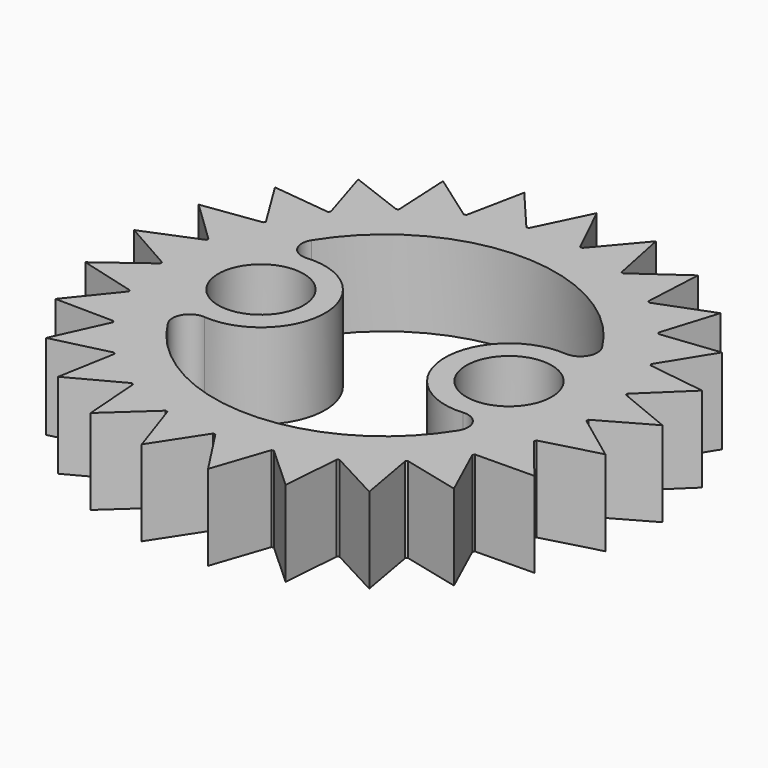
from build123d import *

# Parameters (mm, degrees)
F0_R     = 5
F1_DEPTH = 10


with BuildPart() as f1:
    # F0 (on Top) → F1 (new body)
    with BuildSketch(Plane.XY):
        with BuildLine():
            Line((-14.934364, 27.165507), (-14.585732, 20.304099))
            ThreePointArc((-14.585732, 20.304099), (-14.694631, 20.225425), (-14.803106, 20.146167))
            Line((-14.803106, 20.146167), (-21.22096, 22.598027))
            Line((-21.22096, 22.598027), (-19.176918, 16.038884))
            ThreePointArc((-19.176918, 16.038884), (-19.262831, 15.9356), (-19.348188, 15.831855))
            Line((-19.348188, 15.831855), (-26.174166, 16.610631))
            Line((-26.174166, 16.610631), (-22.563148, 10.765888))
            ThreePointArc((-22.563148, 10.765888), (-22.620676, 10.644482), (-22.677551, 10.52277))
            Line((-22.677551, 10.52277), (-29.482752, 9.579527))
            Line((-29.482752, 9.579527), (-24.531653, 4.816431))
            ThreePointArc((-24.531653, 4.816431), (-24.557181, 4.684533), (-24.582, 4.5525))
            Line((-24.582, 4.5525), (-30.938829, 1.946506))
            Line((-30.938829, 1.946506), (-24.958744, -1.43566))
            ThreePointArc((-24.958744, -1.43566), (-24.950668, -1.569763), (-24.941872, -1.70382))
            Line((-24.941872, -1.70382), (-30.450905, -5.808821))
            Line((-30.450905, -5.808821), (-23.817584, -7.597544))
            ThreePointArc((-23.817584, -7.597544), (-23.776413, -7.725425), (-23.734555, -7.853083))
            Line((-23.734555, -7.853083), (-28.049639, -13.199158))
            Line((-28.049639, -13.199158), (-21.179879, -13.282045))
            ThreePointArc((-21.179879, -13.282045), (-21.108198, -13.39567), (-21.035908, -13.508908))
            Line((-21.035908, -13.508908), (-23.885911, -19.760144))
            Line((-23.885911, -19.760144), (-17.211364, -18.131987))
            ThreePointArc((-17.211364, -18.131987), (-17.113678, -18.224216), (-17.015497, -18.315918))
            Line((-17.015497, -18.315918), (-18.221343, -25.079527))
            Line((-18.221343, -25.079527), (-12.161395, -21.84263))
            ThreePointArc((-12.161395, -21.84263), (-12.043842, -21.907667), (-11.925941, -21.972072))
            Line((-11.925941, -21.972072), (-11.411861, -28.823071))
            Line((-11.411861, -28.823071), (-6.347282, -24.180819))
            ThreePointArc((-6.347282, -24.180819), (-6.217247, -24.214579), (-6.087033, -24.24764))
            Line((-6.087033, -24.24764), (-3.88533, -30.755556))
            Line((-3.88533, -30.755556), (-0.134345, -24.999639))
            ThreePointArc((-0.134345, -24.999639), (0, -25), (0.134345, -24.999639))
            Line((0.134345, -24.999639), (3.88533, -30.755556))
            Line((3.88533, -30.755556), (6.087033, -24.24764))
            ThreePointArc((6.087033, -24.24764), (6.217247, -24.214579), (6.347282, -24.180819))
            Line((6.347282, -24.180819), (11.411861, -28.823071))
            Line((11.411861, -28.823071), (11.925941, -21.972072))
            ThreePointArc((11.925941, -21.972072), (12.043842, -21.907667), (12.161395, -21.84263))
            Line((12.161395, -21.84263), (18.221343, -25.079527))
            Line((18.221343, -25.079527), (17.015497, -18.315918))
            ThreePointArc((17.015497, -18.315918), (17.113678, -18.224216), (17.211364, -18.131987))
            Line((17.211364, -18.131987), (23.885911, -19.760144))
            Line((23.885911, -19.760144), (21.035908, -13.508908))
            ThreePointArc((21.035908, -13.508908), (21.108198, -13.39567), (21.179879, -13.282045))
            Line((21.179879, -13.282045), (28.049639, -13.199158))
            Line((28.049639, -13.199158), (23.734555, -7.853083))
            ThreePointArc((23.734555, -7.853083), (23.776413, -7.725425), (23.817584, -7.597544))
            Line((23.817584, -7.597544), (30.450905, -5.808821))
            Line((30.450905, -5.808821), (24.941872, -1.70382))
            ThreePointArc((24.941872, -1.70382), (24.950668, -1.569763), (24.958744, -1.43566))
            Line((24.958744, -1.43566), (30.938829, 1.946506))
            Line((30.938829, 1.946506), (24.582, 4.5525))
            ThreePointArc((24.582, 4.5525), (24.557181, 4.684533), (24.531653, 4.816431))
            Line((24.531653, 4.816431), (29.482752, 9.579527))
            Line((29.482752, 9.579527), (22.677551, 10.52277))
            ThreePointArc((22.677551, 10.52277), (22.620676, 10.644482), (22.563148, 10.765888))
            Line((22.563148, 10.765888), (26.174166, 16.610631))
            Line((26.174166, 16.610631), (19.348188, 15.831855))
            ThreePointArc((19.348188, 15.831855), (19.262831, 15.9356), (19.176918, 16.038884))
            Line((19.176918, 16.038884), (21.22096, 22.598027))
            Line((21.22096, 22.598027), (14.803106, 20.146167))
            ThreePointArc((14.803106, 20.146167), (14.694631, 20.225425), (14.585732, 20.304099))
            Line((14.585732, 20.304099), (14.934364, 27.165507))
            Line((14.934364, 27.165507), (9.327892, 23.194621))
            ThreePointArc((9.327892, 23.194621), (9.203114, 23.244412), (9.07807, 23.293532))
            Line((9.07807, 23.293532), (7.709387, 30.026078))
            Line((7.709387, 30.026078), (3.266571, 24.785672))
            ThreePointArc((3.266571, 24.785672), (3.133331, 24.802868), (3, 24.819347))
            Line((3, 24.819347), (0, 31))
            Line((0, 31), (-3, 24.819347))
            ThreePointArc((-3, 24.819347), (-3.133331, 24.802868), (-3.266571, 24.785672))
            Line((-3.266571, 24.785672), (-7.709387, 30.026078))
            Line((-7.709387, 30.026078), (-9.07807, 23.293532))
            ThreePointArc((-9.07807, 23.293532), (-9.203114, 23.244412), (-9.327892, 23.194621))
            Line((-9.327892, 23.194621), (-14.934364, 27.165507))
        make_face()
        with Locations((-14.526644, 0)):
            Circle(F0_R, mode=Mode.SUBTRACT)
        with BuildLine():
            ThreePointArc((17.00987, -10.519711), (0, -20), (-17.00987, -10.519711))
            ThreePointArc((-17.00987, -10.519711), (-17.014268, -8.422914), (-15.144201, -7.474532))
            ThreePointArc((-15.144201, -7.474532), (-7.026644, 0), (-15.144201, 7.474532))
            ThreePointArc((-15.144201, 7.474532), (-17.014268, 8.422914), (-17.00987, 10.519711))
            ThreePointArc((-17.00987, 10.519711), (0, 20), (17.00987, 10.519711))
            ThreePointArc((17.00987, 10.519711), (17.014268, 8.422914), (15.144201, 7.474532))
            ThreePointArc((15.144201, 7.474532), (7.026644, 0), (15.144201, -7.474532))
            ThreePointArc((15.144201, -7.474532), (17.014268, -8.422914), (17.00987, -10.519711))
        make_face(mode=Mode.SUBTRACT)
        with Locations((14.526644, 0)):
            Circle(F0_R, mode=Mode.SUBTRACT)
    extrude(amount=F1_DEPTH)


solid = f1.part
